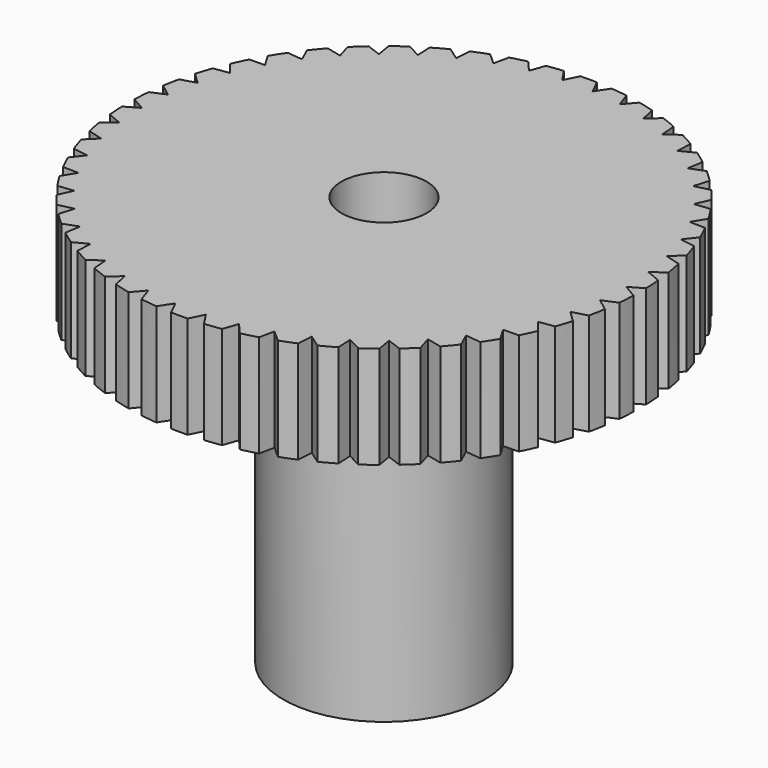
from build123d import *

# Parameters (mm, degrees)
SKETCH_R           = 2.95
PAD_DEPTH          = 8.5
SKETCH001_R        = 4.5
PAD001_DEPTH       = 0.5
SKETCH002_R        = 7.5
PAD002_DEPTH       = 3
SKETCH003_R        = 1.25
HOLE_DEPTH         = 12.001
POCKET_DEPTH       = 60.74523
POLARPATTERN_COUNT = 50


with BuildPart() as part:
    # Sketch → Pad (new body)
    with BuildSketch(Plane.XY):
        Circle(SKETCH_R)
    extrude(amount=PAD_DEPTH)

    # Sketch001 (on Face4 of Pad) → Pad001 (join)
    with BuildSketch(Plane.XY.offset(8.5)):
        Circle(SKETCH001_R)
    extrude(amount=PAD001_DEPTH)

    # Sketch002 (on Face7 of Pad001) → Pad002 (join)
    with BuildSketch(Plane.XY.offset(9)):
        Circle(SKETCH002_R)
    extrude(amount=PAD002_DEPTH)

    # Sketch003 (on Face7 of Pad002) → Hole (cut, through all)
    with BuildSketch(Plane.XY.offset(12)):
        Circle(SKETCH003_R)
    extrude(amount=-HOLE_DEPTH, mode=Mode.SUBTRACT)

    # Sketch004 (on Face5 of Hole) → Pocket (cut, through all)
    with BuildSketch(Plane.XY.offset(12)):
        Polygon((7.1, 0), (7.533013, 0.25), (7.533013, -0.25), align=None)
    pocket = extrude(amount=-POCKET_DEPTH, mode=Mode.SUBTRACT)

    # PolarPattern: Pocket ×50 about axis
    polarpattern_axis = Axis((0, 0, 12), (0, 0, 1))
    for i in range(1, POLARPATTERN_COUNT):
        add(pocket.rotate(polarpattern_axis, i * 360 / POLARPATTERN_COUNT), mode=Mode.SUBTRACT)


solid = part.part
